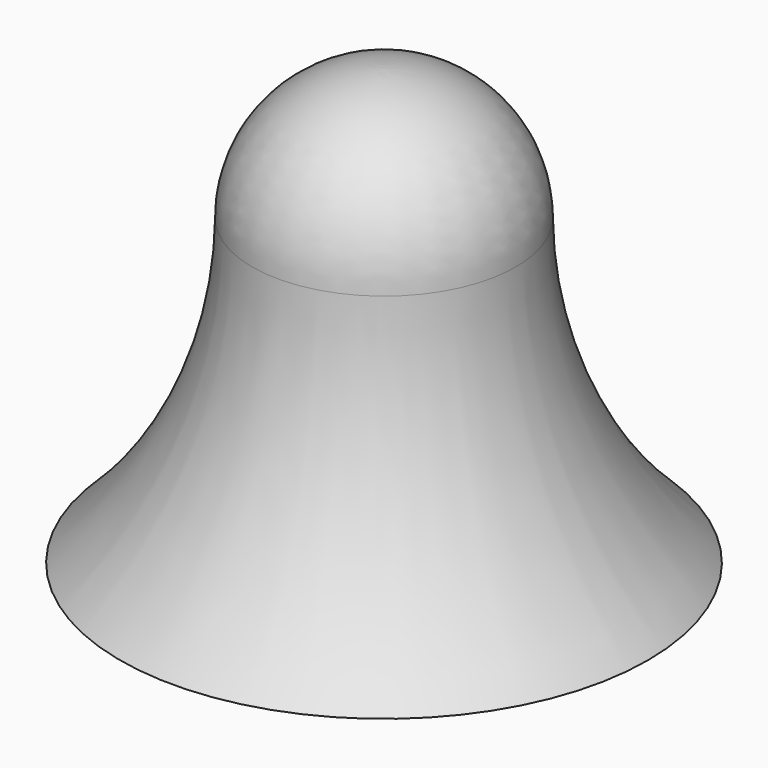
from build123d import *


with BuildPart() as f1:
    # F0 (on Front) → F1 (revolve)
    with BuildSketch(Plane.XZ):
        with BuildLine():
            Line((0, -31.75), (0, 31.75))
            ThreePointArc((0, 31.75), (-22.45064, 22.45064), (-31.75, 0))
            ThreePointArc((-31.75, 0), (-22.45064, -22.45064), (0, -31.75))
        make_face()
        with BuildLine():
            ThreePointArc((0, -31.75), (-22.45064, -22.45064), (-31.75, 0))
            ThreePointArc((-31.75, 0), (-40.175137, -39.746246), (-63.5, -73.013314))
            Line((-63.5, -73.013314), (0, -73.013314))
            Line((0, -73.013314), (0, -31.75))
        make_face()
    revolve(axis=Axis((0, 0, -20.631657), (0, 0, 1)))


solid = f1.part
